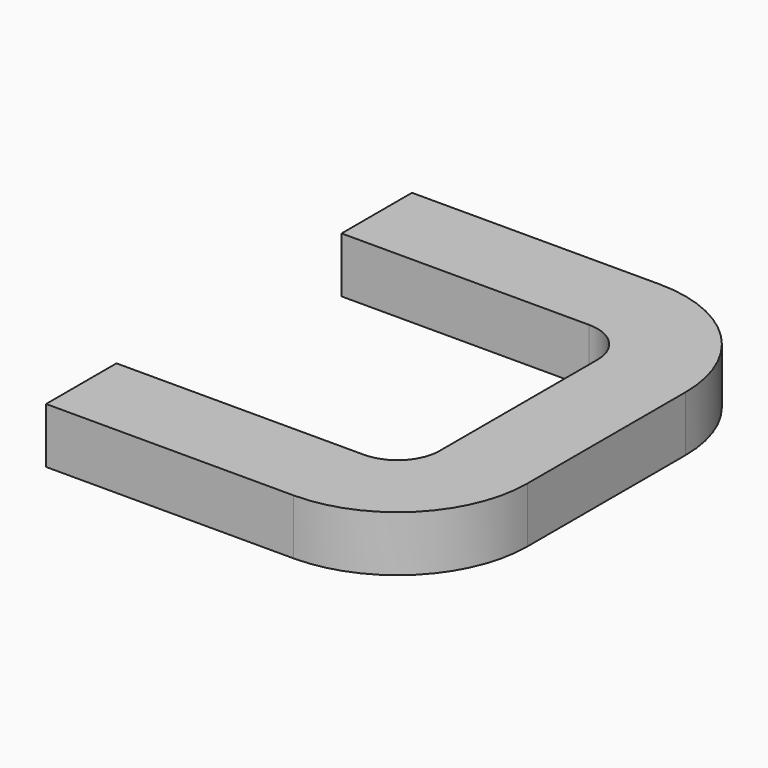
from build123d import *

# Parameters (mm, degrees)
F1_W = 13.292626
F1_H = 8.380354


with BuildPart() as f2:
    # F2: sweep along a path in F0
    with BuildLine(Plane.XY) as f2_path:
        Line((0, 0), (37.379454, 0))
        ThreePointArc((37.379454, 0), (41.869582, -1.859872), (43.729454, -6.35))
        Line((43.729454, -6.35), (43.729454, -36.152575))
        ThreePointArc((43.729454, -36.152575), (41.869582, -40.642703), (37.379454, -42.502575))
        Line((37.379454, -42.502575), (0, -42.502575))
    # F1 (on Right) → F2 (sweep)
    with BuildSketch(Plane.YZ):
        with Locations((6.646313, 4.190177)):
            Rectangle(F1_W, F1_H)
    sweep(path=f2_path.line)


solid = f2.part
